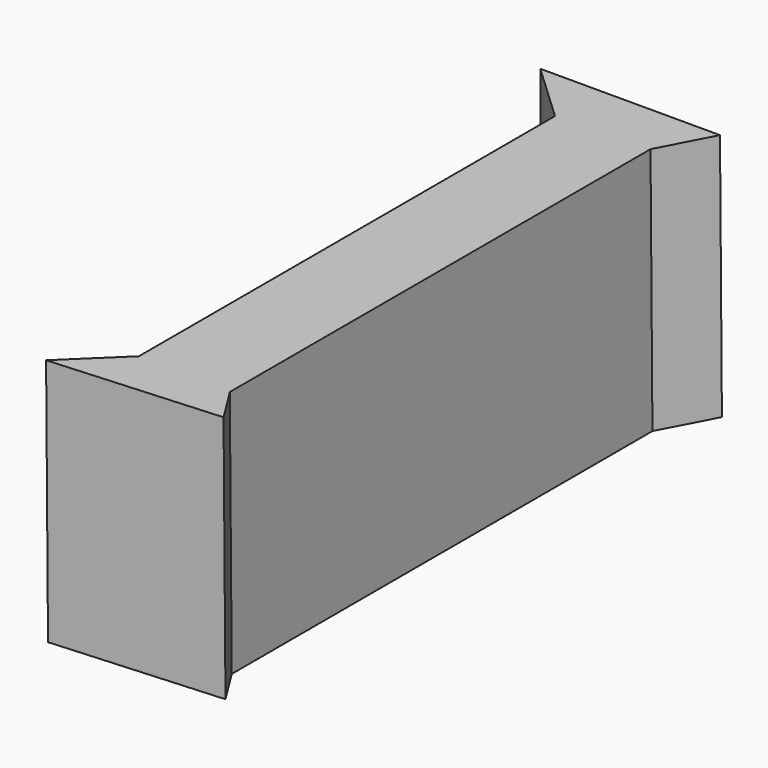
from build123d import *


with BuildPart() as f3:
    # F0 (on Top) → F3 section 0
    with BuildSketch(Plane.XY):
        Polygon((-17.347392, 12.50657), (-11.504787, 7.024775), (-11.504787, -44.522971), (-16.696112, -49.531806), (0, -48.41873), (-2.27086, -44.801239), (-2.27086, 7.31451), (0.460649, 12.50657), align=None)
    # F2 (on offset) → F3 section 1
    with BuildSketch(Plane.XY.offset(25)):
        Polygon((-16.985318, 11.814359), (-11.142713, 6.332564), (-11.142713, -45.215182), (-16.334039, -50.224017), (0.362074, -49.110942), (-1.908786, -45.49345), (-1.908786, 6.622299), (0.822722, 11.814359), align=None)
    loft()


solid = f3.part
